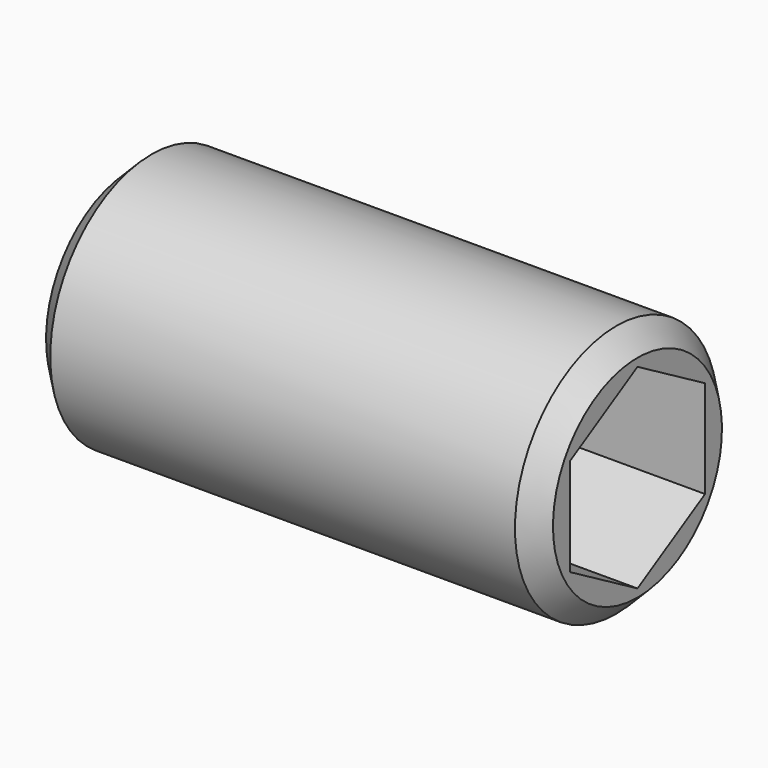
from build123d import *

# Parameters (mm, degrees)
CYLINDER024_R     = 1.5
CYLINDER024_DEPTH = 6
CHAMFER002_SIZE   = 0.25
POCKET014_DEPTH   = 2.5


with BuildPart() as part:
    # Cylinder024 → Cylinder024 (new body)
    with BuildSketch(Plane(origin=(3, 0, 2.6), x_dir=(0, 0, -1), z_dir=(1, 0, 0))):
        Circle(CYLINDER024_R)
    extrude(amount=CYLINDER024_DEPTH)

    # Chamfer002
    chamfer002_edges = [part.edges().sort_by_distance(p)[0] for p in [
        (9, 0, 4.1),
        (3, 0, 4.1),
    ]]
    chamfer(chamfer002_edges, length=CHAMFER002_SIZE)

    # Sketch038 (on Face5 of Chamfer002) → Pocket014 (cut)
    with BuildSketch(Plane.YZ.offset(9)):
        Polygon((-1, 3.17735), (0, 3.754701), (1, 3.17735), (1, 2.02265), (0, 1.445299), (-1, 2.02265), align=None)
    extrude(amount=-POCKET014_DEPTH, mode=Mode.SUBTRACT)


solid = part.part
